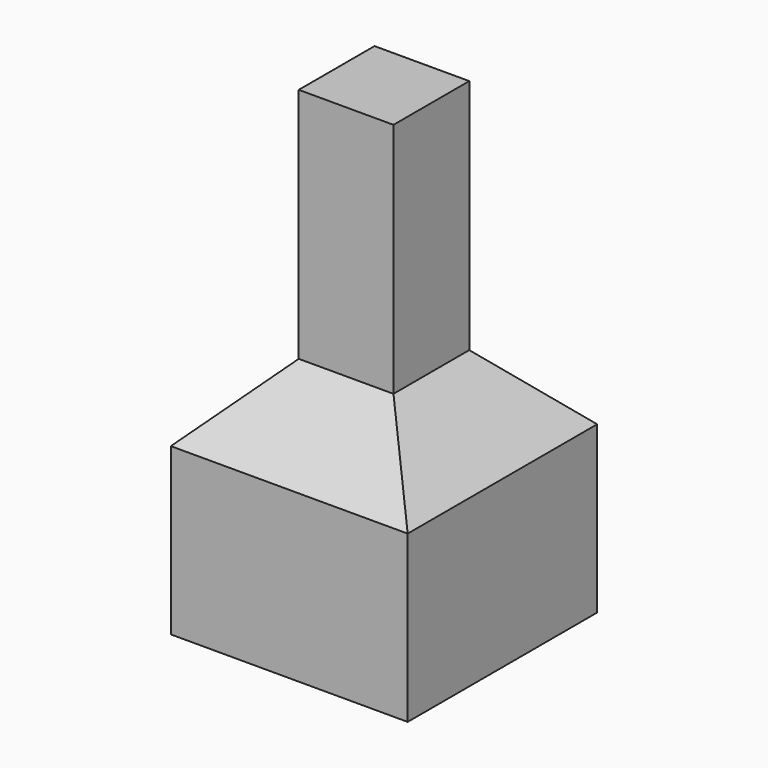
from build123d import *

# Parameters (mm, degrees)
F0_W     = 25.4
F0_H     = 25.4
F1_DEPTH = 25.4
F2_SIZE  = 7.62
F3_W     = 10.16
F3_H     = 10.16
F4_DEPTH = 25.4


with BuildPart() as f1:
    # F0 (on Top) → F1 (new body)
    with BuildSketch(Plane.XY):
        with Locations((-12.7, -12.7)):
            Rectangle(F0_W, F0_H)
    extrude(amount=F1_DEPTH)

    # F2
    f2_edges = [f1.edges().sort_by_distance(p)[0] for p in [
        (-12.7, -25.4, 25.4),
        (-25.4, -12.7, 25.4),
        (-12.7, 0, 25.4),
        (0, -12.7, 25.4),
    ]]
    chamfer(f2_edges, length=F2_SIZE)

    # F3 (on face) → F4 (join)
    with BuildSketch(Plane.XY.offset(25.4)):
        with Locations((-12.7, -12.7)):
            Rectangle(F3_W, F3_H)
    extrude(amount=F4_DEPTH)


solid = f1.part
